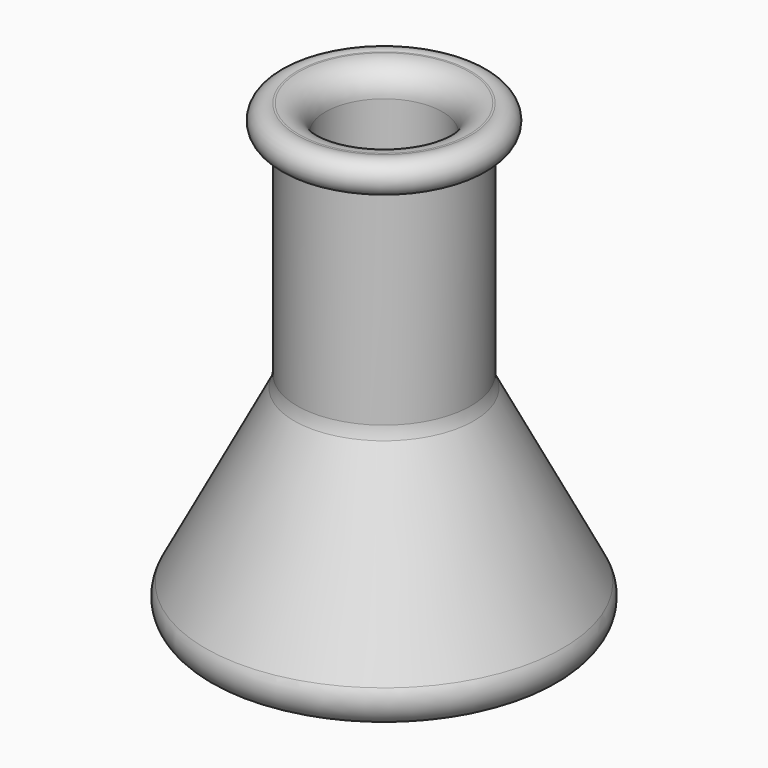
from build123d import *

# Parameters (mm, degrees)
F2_R = 5.08


with BuildPart() as f1:
    # F0 (on Front) → F1 (revolve)
    with BuildSketch(Plane.XZ):
        with BuildLine():
            Line((-38.011436, -41.243773), (0, -41.243773))
            Line((0, -41.243773), (0, -35.997218))
            Line((0, -35.997218), (-29.845339, -35.997218))
            Line((-29.845339, -35.997218), (-11.164162, 0))
            Line((-11.164162, 0), (-11.164162, 46.781804))
            Line((-11.164162, 46.781804), (-16.607499, 46.781804))
            ThreePointArc((-16.607499, 46.781804), (-20.499533, 43.873593), (-16.607499, 40.965382))
            Line((-16.607499, 40.965382), (-16.607499, 0))
            Line((-16.607499, 0), (-38.011436, -41.243773))
        make_face()
    revolve(axis=Axis((0, 0, -38.620495), (0, 0, -1)))

    # F2
    f2_edges = [f1.edges().sort_by_distance(p)[0] for p in [
        (16.607499, 0, 0),
        (38.011436, 0, -41.243773),
        (-27.309468, 0, -20.621886),
        (11.164162, 0, 46.781804),
    ]]
    fillet(f2_edges, radius=F2_R)


solid = f1.part
